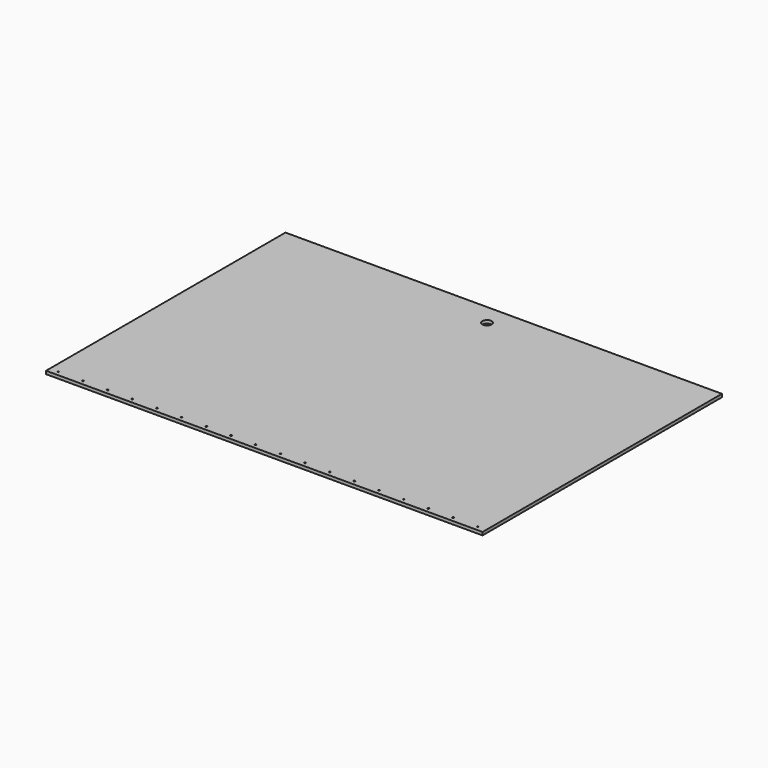
from build123d import *

# Parameters (mm, degrees)
F0_W     = 898.525
F0_H     = 615.95
F0_R     = 1.5875
F0_R_2   = 9.525
F1_DEPTH = 6.35


with BuildPart() as f1:
    # F0 (on Top) → F1 (new body)
    with BuildSketch(Plane.XY):
        with Locations((0, -66.068323)):
            Rectangle(F0_W, F0_H)
        with Locations((-431.8, -364.518323)):
            Circle(F0_R, mode=Mode.SUBTRACT)
        with Locations((-381, -364.518323)):
            Circle(F0_R, mode=Mode.SUBTRACT)
        with Locations((-330.2, -364.518323)):
            Circle(F0_R, mode=Mode.SUBTRACT)
        with Locations((-279.4, -364.518323)):
            Circle(F0_R, mode=Mode.SUBTRACT)
        with Locations((-228.6, -364.518323)):
            Circle(F0_R, mode=Mode.SUBTRACT)
        with Locations((-177.8, -364.518323)):
            Circle(F0_R, mode=Mode.SUBTRACT)
        with Locations((-127, -364.518323)):
            Circle(F0_R, mode=Mode.SUBTRACT)
        with Locations((-76.2, -364.518323)):
            Circle(F0_R, mode=Mode.SUBTRACT)
        with Locations((-25.4, -364.518323)):
            Circle(F0_R, mode=Mode.SUBTRACT)
        with Locations((25.4, -364.518323)):
            Circle(F0_R, mode=Mode.SUBTRACT)
        with Locations((76.2, -364.518323)):
            Circle(F0_R, mode=Mode.SUBTRACT)
        with Locations((127, -364.518323)):
            Circle(F0_R, mode=Mode.SUBTRACT)
        with Locations((177.8, -364.518323)):
            Circle(F0_R, mode=Mode.SUBTRACT)
        with Locations((228.6, -364.518323)):
            Circle(F0_R, mode=Mode.SUBTRACT)
        with Locations((279.4, -364.518323)):
            Circle(F0_R, mode=Mode.SUBTRACT)
        with Locations((330.2, -364.518323)):
            Circle(F0_R, mode=Mode.SUBTRACT)
        with Locations((381, -364.518323)):
            Circle(F0_R, mode=Mode.SUBTRACT)
        with Locations((431.8, -364.518323)):
            Circle(F0_R, mode=Mode.SUBTRACT)
        with Locations((0, 199.044177)):
            Circle(F0_R_2, mode=Mode.SUBTRACT)
    extrude(amount=F1_DEPTH)


solid = f1.part
